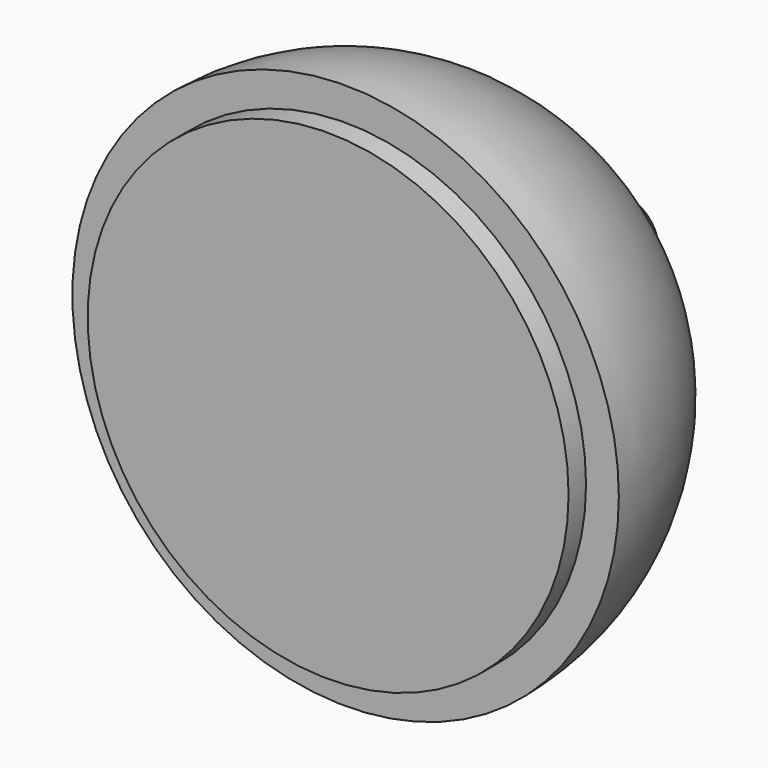
from build123d import *


with BuildPart() as f1:
    # F0 (on Top) → F1 (revolve)
    with BuildSketch(Plane.XY):
        with BuildLine():
            Line((22, 0), (25, 0))
            ThreePointArc((25, 0), (18.981926, 16.269188), (3.82508, 24.705642))
            ThreePointArc((3.82508, 24.705642), (4.533226, 30.035167), (0, 32.925698))
            Line((0, 32.925698), (0, 0))
            Line((0, 0), (0, -2))
            Line((0, -2), (22, -2))
            Line((22, -2), (22, 0))
        make_face()
    revolve(axis=Axis((0, 16.462849, 0), (0, -1, 0)))


solid = f1.part
